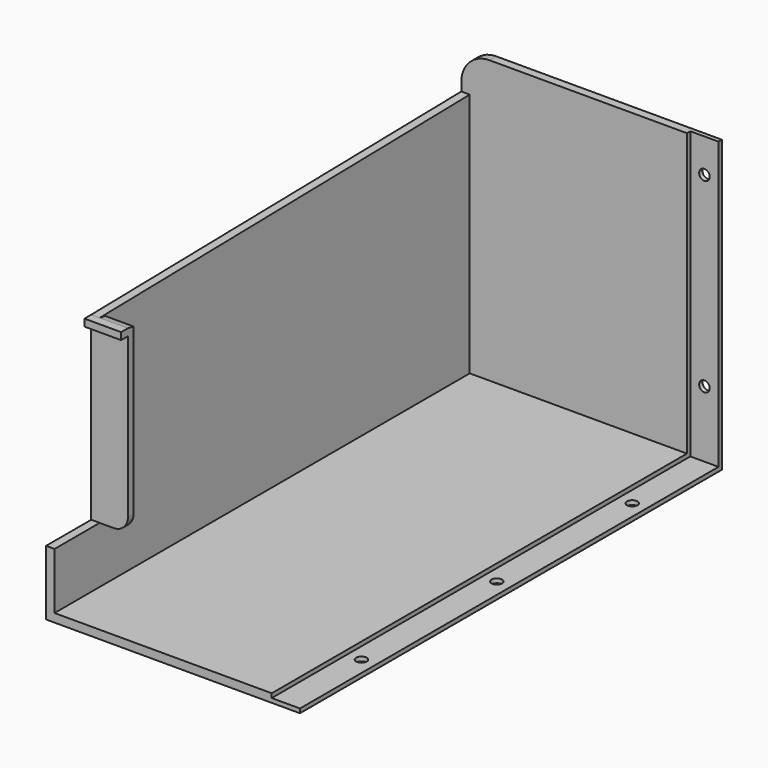
from build123d import *

# Parameters (mm, degrees)
F0_W             = 80
F0_H             = 187
F1_DEPTH         = 3
F2_W             = 80
F2_H             = 3
F3_DEPTH         = 100
F5_DEPTH         = 3
F7_DEPTH         = 10
F8_W             = 13
F8_H             = 2.5
F9_DEPTH         = 3
F10_R            = 10
F11_R            = 5
F13_DEPTH        = 10
F16_D            = 3.75
F16_DEPTH        = 4.5
F16_TIP          = 1.1266136607
F16_ON_F15_D     = 3.75
F16_ON_F15_DEPTH = 4.5
F16_ON_F15_TIP   = 1.1266136607


with BuildPart() as f1:
    # F0 (on Top) → F1 (new body)
    with BuildSketch(Plane.XY):
        with Locations((-40, 0)):
            Rectangle(F0_W, F0_H)
    extrude(amount=F1_DEPTH)

    # F2 (on face) → F3 (join)
    with BuildSketch(Plane.XY.offset(3)):
        with Locations((-40, 92)):
            Rectangle(F2_W, F2_H)
    extrude(amount=F3_DEPTH)

    # F4 (on face) → F5 (join)
    with BuildSketch(Plane(origin=(-80, 0, 0), x_dir=(0, -1, 0), z_dir=(-1, 0, 0))):
        Polygon((-90.5, 90), (-90.5, 3), (93.5, 3), (93.5, 23), (73.5, 23), (73.5, 87), align=None)
    extrude(amount=-F5_DEPTH)

    # F6 (on face) → F7 (join)
    with BuildSketch(Plane.YZ.offset(-77)):
        Polygon((-71, 86.5415299445), (-73.5, 87), (-73.5, 23), (-71, 23), align=None)
    extrude(amount=F7_DEPTH)

    # F8 (on face) → F9 (join)
    with BuildSketch(Plane.XZ.offset(73.5)):
        with Locations((-73.5, 85.75)):
            Rectangle(F8_W, F8_H)
    extrude(amount=F9_DEPTH)

    # F10
    f10_edges = [f1.edges().sort_by_distance(p)[0] for p in [
        (-80, 92, 103),
    ]]
    fillet(f10_edges, radius=F10_R)

    # F11
    f11_edges = [f1.edges().sort_by_distance(p)[0] for p in [
        (-67, -72.25, 23),
    ]]
    fillet(f11_edges, radius=F11_R)

    # F12 (on face) → F13 (join)
    with BuildSketch(Plane.YZ):
        Polygon((93.5, 0), (93.5, 103), (92, 103), (92, 1.5), (-93.5, 1.5), (-93.5, 0), align=None)
    extrude(amount=F13_DEPTH)

    # F16
    with Locations(Plane.XY.offset(1.5)):
        with Locations((5, -60), (5, 0), (5, 60)):
            Hole(F16_D / 2, depth=F16_DEPTH)
            with Locations((0, 0, -(F16_DEPTH + F16_TIP / 2))):  # 118° drill point
                Cone(0, F16_D / 2, F16_TIP, mode=Mode.SUBTRACT)

    # F16 on F15
    with Locations(Plane.XZ.offset(-92)):
        with Locations((5, 25), (5, 91)):
            Hole(F16_ON_F15_D / 2, depth=F16_ON_F15_DEPTH)
            with Locations((0, 0, -(F16_ON_F15_DEPTH + F16_ON_F15_TIP / 2))):  # 118° drill point
                Cone(0, F16_ON_F15_D / 2, F16_ON_F15_TIP, mode=Mode.SUBTRACT)


solid = f1.part
